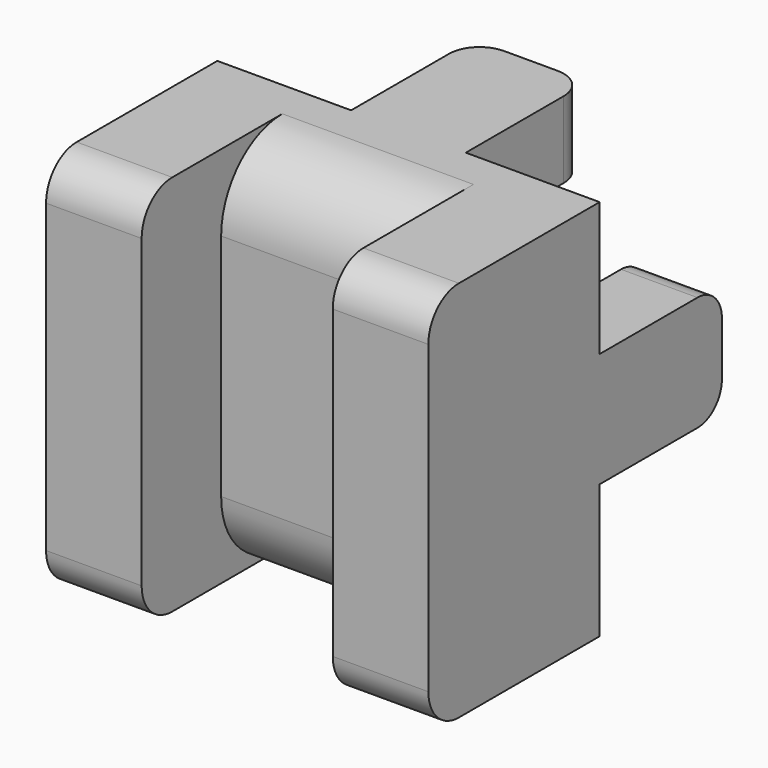
from build123d import *

# Parameters (mm, degrees)
BOX_W        = 10
BOX_H        = 3
BOX_DEPTH    = 10
SKETCH_W     = 3
SKETCH_H     = 2
SKETCH_W_2   = 2
SKETCH_H_2   = 3
PAD_DEPTH    = 4
SKETCH001_W  = 2.5
SKETCH001_H  = 10
PAD001_DEPTH = 2.6
FILLET_R     = 2
FILLET001_R  = 0.8
FILLET002_R  = 1
FILLET003_R  = 1.4


with BuildPart() as part:
    # Box → Box (new body)
    with BuildSketch(Plane(origin=(-5, 0, -5), x_dir=(1, 0, 0), z_dir=(0, 0, 1))):
        with Locations((5, 1.5)):
            Rectangle(BOX_W, BOX_H)
    extrude(amount=BOX_DEPTH)

    # Sketch → Pad (new body)
    with BuildSketch(Plane(origin=(-5, 3, -5), x_dir=(-1, 0, 0), z_dir=(0, 1, 0))):
        with Locations((-5, 9)):
            Rectangle(SKETCH_W, SKETCH_H)
        with Locations((-9, 5)):
            Rectangle(SKETCH_W_2, SKETCH_H_2)
        with Locations((-1, 5)):
            Rectangle(SKETCH_W_2, SKETCH_H_2)
        with Locations((-5, 1)):
            Rectangle(SKETCH_W, SKETCH_H)
    extrude(amount=PAD_DEPTH)

    # Sketch001 → Pad001 (new body)
    with BuildSketch(Plane(origin=(-5, 0, -5), x_dir=(1, 0, 0), z_dir=(0, -1, 0))):
        with Locations((1.25, 5)):
            Rectangle(SKETCH001_W, SKETCH001_H)
        with Locations((8.75, 5)):
            Rectangle(SKETCH001_W, SKETCH001_H)
    extrude(amount=PAD001_DEPTH)

    # Fillet
    fillet_edges = [part.edges().sort_by_distance(p)[0] for p in [
        (0, 0, -5),
        (0, 0, 5),
    ]]
    fillet(fillet_edges, radius=FILLET_R)

    # Fillet001
    fillet001_edges = [part.edges().sort_by_distance(p)[0] for p in [
        (4, 7, -1.5),
        (4, 7, 1.5),
        (1.5, 7, 4),
        (-1.5, 7, 4),
        (-4, 7, 1.5),
        (-4, 7, -1.5),
        (-1.5, 7, -4),
        (1.5, 7, -4),
    ]]
    fillet(fillet001_edges, radius=FILLET001_R)

    # Fillet002
    fillet002_edges = [part.edges().sort_by_distance(p)[0] for p in [
        (-3.75, -2.6, -5),
        (3.75, -2.6, -5),
        (3.75, -2.6, 5),
        (-3.75, -2.6, 5),
    ]]
    fillet(fillet002_edges, radius=FILLET002_R)

    # Fillet003
    fillet003_edges = [part.edges().sort_by_distance(p)[0] for p in [
        (0, 3, -3),
        (-3, 3, 0),
        (3, 3, 0),
        (0, 3, 3),
    ]]
    fillet(fillet003_edges, radius=FILLET003_R)


solid = part.part
